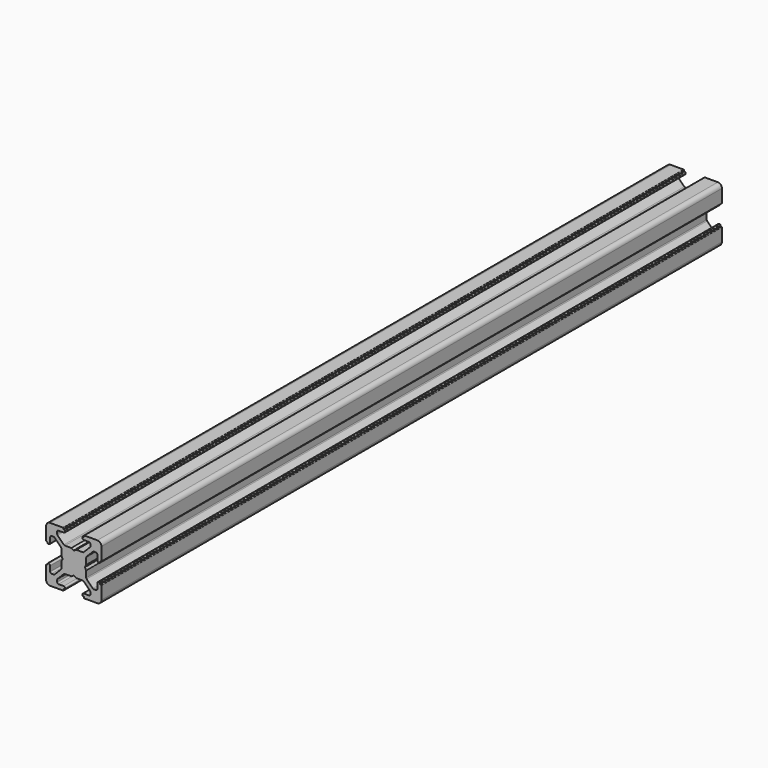
from build123d import *

# Parameters (mm, degrees)
PAD009_DEPTH    = 280
POCKET021_DEPTH = 280.001


with BuildPart() as pad009:
    # Sketch019 → Pad009 (new body)
    with BuildSketch(Plane(origin=(0, 0, -1.5), x_dir=(0, 0, -1), z_dir=(0, 1, 0))):
        with BuildLine():
            Line((0, 20), (4.65, 20))
            ThreePointArc((4.85, 19.8), (4.791421, 19.941421), (4.65, 20))
            Line((4.85, 19.8), (4.85, 19.5))
            Line((4.85, 19.5), (5.2, 19.5))
            ThreePointArc((5.4, 19.3), (5.341421, 19.441421), (5.2, 19.5))
            Line((5.4, 19.3), (5.4, 19))
            ThreePointArc((4.9, 18.5), (5.253553, 18.646446), (5.4, 19))
            Line((4.9, 18.5), (2.999999, 18.5))
            ThreePointArc((2.999999, 18.5), (2.646446, 18.353553), (2.499999, 18))
            Line((2.499999, 18), (2.499999, 17.267767))
            ThreePointArc((2.499999, 17.267767), (2.53806, 17.076425), (2.646446, 16.914213))
            Line((2.646446, 16.914213), (4.914213, 14.646447))
            ThreePointArc((4.914213, 14.646447), (5.076424, 14.53806), (5.267766, 14.5))
            Line((5.267766, 14.5), (7.54641, 14.5))
            ThreePointArc((7.64641, 14.473205), (7.598173, 14.493185), (7.54641, 14.5))
            Line((7.64641, 14.473205), (8.4, 14.03812))
            ThreePointArc((8.4, 14.03812), (8.5, 14.011325), (8.6, 14.03812))
            Line((8.6, 14.03812), (9.35359, 14.473205))
            ThreePointArc((9.45359, 14.5), (9.401827, 14.493185), (9.35359, 14.473205))
            Line((9.45359, 14.5), (11.732234, 14.5))
            ThreePointArc((11.732234, 14.5), (11.923576, 14.53806), (12.085787, 14.646447))
            Line((12.085787, 14.646447), (14.353554, 16.914213))
            ThreePointArc((14.353554, 16.914213), (14.46194, 17.076425), (14.500001, 17.267767))
            Line((14.500001, 17.267767), (14.500001, 18))
            ThreePointArc((14.500001, 18), (14.353554, 18.353553), (14.000001, 18.5))
            Line((14.000001, 18.5), (12.1, 18.5))
            ThreePointArc((11.6, 19), (11.746447, 18.646446), (12.1, 18.5))
            Line((11.6, 19), (11.6, 19.3))
            ThreePointArc((11.8, 19.5), (11.658579, 19.441421), (11.6, 19.3))
            Line((11.8, 19.5), (12.15, 19.5))
            Line((12.15, 19.5), (12.15, 19.8))
            ThreePointArc((12.35, 20), (12.208579, 19.941421), (12.15, 19.8))
            Line((12.35, 20), (17, 20))
            ThreePointArc((18.5, 18.5), (18.06066, 19.56066), (17, 20))
            Line((18.5, 18.5), (18.5, 13.85))
            ThreePointArc((18.3, 13.65), (18.441421, 13.708578), (18.5, 13.85))
            Line((18.3, 13.65), (18, 13.65))
            Line((18, 13.65), (18, 13.3))
            ThreePointArc((17.8, 13.1), (17.941421, 13.158579), (18, 13.3))
            Line((17.8, 13.1), (17.5, 13.1))
            ThreePointArc((17, 13.6), (17.146446, 13.246447), (17.5, 13.1))
            Line((17, 13.6), (17, 15.5))
            ThreePointArc((17, 15.5), (16.853553, 15.853553), (16.5, 16))
            Line((16.5, 16), (15.767767, 16))
            ThreePointArc((15.767767, 16), (15.576425, 15.961939), (15.414213, 15.853553))
            Line((15.414213, 15.853553), (13.146446, 13.585786))
            ThreePointArc((13.146446, 13.585786), (13.03806, 13.423574), (13, 13.232233))
            Line((13, 13.232233), (13, 10.953589))
            ThreePointArc((12.973205, 10.853589), (12.993185, 10.901825), (13, 10.953589))
            Line((12.973205, 10.853589), (12.53812, 10.1))
            ThreePointArc((12.53812, 10.1), (12.511325, 10), (12.53812, 9.9))
            Line((12.53812, 9.9), (12.973205, 9.146411))
            ThreePointArc((13, 9.046411), (12.993185, 9.098175), (12.973205, 9.146411))
            Line((13, 9.046411), (13, 6.767767))
            ThreePointArc((13, 6.767767), (13.03806, 6.576426), (13.146446, 6.414214))
            Line((13.146446, 6.414214), (15.414213, 4.146447))
            ThreePointArc((15.414213, 4.146447), (15.576425, 4.038061), (15.767767, 4))
            Line((15.767767, 4), (16.5, 4))
            ThreePointArc((16.5, 4), (16.853553, 4.146447), (17, 4.5))
            Line((17, 4.5), (17, 6.4))
            ThreePointArc((17.5, 6.9), (17.146446, 6.753553), (17, 6.4))
            Line((17.5, 6.9), (17.8, 6.9))
            ThreePointArc((18, 6.7), (17.941421, 6.841421), (17.8, 6.9))
            Line((18, 6.7), (18, 6.35))
            Line((18, 6.35), (18.3, 6.35))
            ThreePointArc((18.5, 6.15), (18.441421, 6.291422), (18.3, 6.35))
            Line((18.5, 6.15), (18.5, 1.5))
            ThreePointArc((17, 0), (18.06066, 0.43934), (18.5, 1.5))
            Line((17, 0), (12.35, 0))
            ThreePointArc((12.15, 0.2), (12.208579, 0.058579), (12.35, 0))
            Line((12.15, 0.2), (12.15, 0.5))
            Line((12.15, 0.5), (11.8, 0.5))
            ThreePointArc((11.6, 0.7), (11.658579, 0.558579), (11.8, 0.5))
            Line((11.6, 0.7), (11.6, 1))
            ThreePointArc((12.1, 1.5), (11.746447, 1.353554), (11.6, 1))
            Line((12.1, 1.5), (14.000001, 1.5))
            ThreePointArc((14.000001, 1.5), (14.353554, 1.646447), (14.500001, 2))
            Line((14.500001, 2), (14.500001, 2.732233))
            ThreePointArc((14.500001, 2.732233), (14.46194, 2.923575), (14.353554, 3.085787))
            Line((14.353554, 3.085787), (12.085787, 5.353553))
            ThreePointArc((12.085787, 5.353553), (11.923576, 5.46194), (11.732234, 5.5))
            Line((11.732234, 5.5), (9.45359, 5.5))
            ThreePointArc((9.35359, 5.526795), (9.401827, 5.506815), (9.45359, 5.5))
            Line((9.35359, 5.526795), (8.6, 5.96188))
            ThreePointArc((8.6, 5.96188), (8.5, 5.988675), (8.4, 5.96188))
            Line((8.4, 5.96188), (7.64641, 5.526795))
            ThreePointArc((7.54641, 5.5), (7.598173, 5.506815), (7.64641, 5.526795))
            Line((7.54641, 5.5), (5.267766, 5.5))
            ThreePointArc((5.267766, 5.5), (5.076424, 5.46194), (4.914213, 5.353553))
            Line((4.914213, 5.353553), (2.646446, 3.085787))
            ThreePointArc((2.646446, 3.085787), (2.53806, 2.923575), (2.499999, 2.732233))
            Line((2.499999, 2.732233), (2.499999, 2))
            ThreePointArc((2.499999, 2), (2.646446, 1.646447), (2.999999, 1.5))
            Line((2.999999, 1.5), (4.9, 1.5))
            ThreePointArc((5.4, 1), (5.253553, 1.353554), (4.9, 1.5))
            Line((5.4, 1), (5.4, 0.7))
            ThreePointArc((5.2, 0.5), (5.341421, 0.558579), (5.4, 0.7))
            Line((5.2, 0.5), (4.85, 0.5))
            Line((4.85, 0.5), (4.85, 0.2))
            ThreePointArc((4.65, 0), (4.791421, 0.058579), (4.85, 0.2))
            Line((4.65, 0), (0, 0))
            ThreePointArc((-1.5, 1.5), (-1.06066, 0.43934), (0, 0))
            Line((-1.5, 1.5), (-1.5, 6.15))
            ThreePointArc((-1.3, 6.35), (-1.441421, 6.291422), (-1.5, 6.15))
            Line((-1.3, 6.35), (-1, 6.35))
            Line((-1, 6.35), (-1, 6.7))
            ThreePointArc((-0.8, 6.9), (-0.941421, 6.841421), (-1, 6.7))
            Line((-0.8, 6.9), (-0.5, 6.9))
            ThreePointArc((0, 6.4), (-0.146446, 6.753553), (-0.5, 6.9))
            Line((0, 6.4), (0, 4.5))
            ThreePointArc((0, 4.5), (0.146447, 4.146447), (0.5, 4))
            Line((0.5, 4), (1.232233, 4))
            ThreePointArc((1.232233, 4), (1.423575, 4.038061), (1.585787, 4.146447))
            Line((1.585787, 4.146447), (3.853554, 6.414214))
            ThreePointArc((3.853554, 6.414214), (3.96194, 6.576426), (4, 6.767767))
            Line((4, 6.767767), (4, 9.046411))
            ThreePointArc((4.026795, 9.146411), (4.006815, 9.098175), (4, 9.046411))
            Line((4.026795, 9.146411), (4.46188, 9.9))
            ThreePointArc((4.46188, 9.9), (4.488675, 10), (4.46188, 10.1))
            Line((4.46188, 10.1), (4.026795, 10.853589))
            ThreePointArc((4, 10.953589), (4.006815, 10.901825), (4.026795, 10.853589))
            Line((4, 10.953589), (4, 13.232233))
            ThreePointArc((4, 13.232233), (3.96194, 13.423574), (3.853554, 13.585786))
            Line((3.853554, 13.585786), (1.585787, 15.853553))
            ThreePointArc((1.585787, 15.853553), (1.423575, 15.961939), (1.232233, 16))
            Line((1.232233, 16), (0.5, 16))
            ThreePointArc((0.5, 16), (0.146447, 15.853553), (0, 15.5))
            Line((0, 15.5), (0, 13.6))
            ThreePointArc((-0.5, 13.1), (-0.146446, 13.246447), (0, 13.6))
            Line((-0.5, 13.1), (-0.8, 13.1))
            ThreePointArc((-1, 13.3), (-0.941421, 13.158579), (-0.8, 13.1))
            Line((-1, 13.3), (-1, 13.65))
            Line((-1, 13.65), (-1.3, 13.65))
            ThreePointArc((-1.5, 13.85), (-1.441421, 13.708578), (-1.3, 13.65))
            Line((-1.5, 13.85), (-1.5, 18.5))
            ThreePointArc((0, 20), (-1.06066, 19.56066), (-1.5, 18.5))
        make_face()
    extrude(amount=PAD009_DEPTH)


with BuildPart() as obj1:
    # Pocket021 base: copy of Pad009
    add(pad009.part)

    # Sketch020 → Pocket021 (cut, through all)
    with BuildSketch(Plane(origin=(0, 280, -1.5), x_dir=(0, 0, -1), z_dir=(0, 1, 0))):
        with BuildLine():
            ThreePointArc((6.586105, 12.989641), (5.988263, 12.50841), (5.507825, 11.909931))
            Line((6.054705, 11.258185), (5.507825, 11.909931))
            ThreePointArc((6.054705, 11.258185), (5.75, 10), (6.054705, 8.741815))
            Line((5.507825, 8.090069), (6.054705, 8.741815))
            ThreePointArc((5.507825, 8.090069), (5.988263, 7.49159), (6.586105, 7.010359))
            Line((7.241815, 7.554705), (6.586105, 7.010359))
            ThreePointArc((7.241815, 7.554705), (8.5, 7.25), (9.758185, 7.554705))
            Line((10.413895, 7.010359), (9.758185, 7.554705))
            ThreePointArc((10.413895, 7.010359), (11.011737, 7.49159), (11.492175, 8.090069))
            Line((10.945295, 8.741815), (11.492175, 8.090069))
            ThreePointArc((10.945295, 8.741815), (11.25, 10), (10.945295, 11.258185))
            Line((11.492175, 11.909931), (10.945295, 11.258185))
            ThreePointArc((11.492175, 11.909931), (11.011737, 12.50841), (10.413895, 12.989641))
            Line((9.758185, 12.445295), (10.413895, 12.989641))
            ThreePointArc((9.758185, 12.445295), (8.5, 12.75), (7.241815, 12.445295))
            Line((6.586105, 12.989641), (7.241815, 12.445295))
        make_face()
    extrude(amount=-POCKET021_DEPTH, mode=Mode.SUBTRACT)

    # Fusion011: union Pad009
    add(pad009.part)


with BuildPart() as obj1_1:
    # Fusion011 placement: moved
    add(obj1.part.moved(Location((-153, -156, -510))))


solid = obj1_1.part
